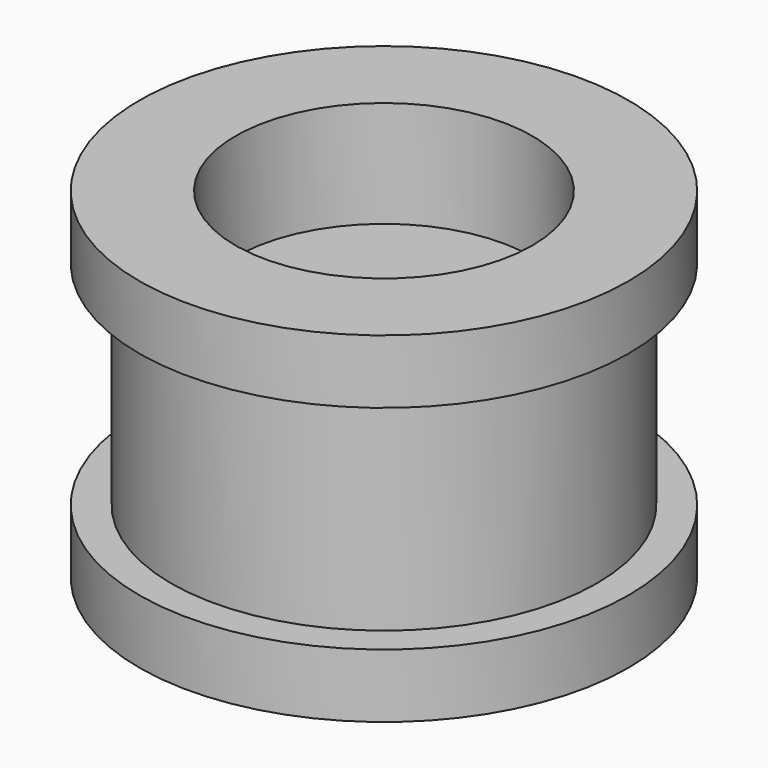
from build123d import *

# Parameters (mm, degrees)
SKETCH_R        = 11.5
PAD_DEPTH       = 3
SKETCH001_R     = 10
PAD001_DEPTH    = 10
SKETCH002_R     = 11.5
PAD002_DEPTH    = 3
SKETCH003_R     = 2.6
POCKET_DEPTH    = 16
SKETCH004_R     = 6.975
POCKET001_DEPTH = 5
SKETCH005_R     = 6.975
POCKET002_DEPTH = 5


with BuildPart() as part:
    # Sketch → Pad (new body)
    with BuildSketch(Plane.XY):
        Circle(SKETCH_R)
    extrude(amount=PAD_DEPTH)

    # Sketch001 (on Face3 of Pad) → Pad001 (join)
    with BuildSketch(Plane.XY.offset(3)):
        Circle(SKETCH001_R)
    extrude(amount=PAD001_DEPTH)

    # Sketch002 (on Face5 of Pad001) → Pad002 (join)
    with BuildSketch(Plane.XY.offset(13)):
        Circle(SKETCH002_R)
    extrude(amount=PAD002_DEPTH)

    # Sketch003 (on Face3 of Pad002) → Pocket (cut)
    with BuildSketch(Plane.XY.offset(16)):
        Circle(SKETCH003_R)
    extrude(amount=-POCKET_DEPTH, mode=Mode.SUBTRACT)

    # Sketch004 (on Face3 of Pocket) → Pocket001 (cut)
    with BuildSketch(Plane.XY.offset(16)):
        Circle(SKETCH004_R)
    extrude(amount=-POCKET001_DEPTH, mode=Mode.SUBTRACT)

    # Sketch005 (on Face10 of Pocket001) → Pocket002 (cut)
    with BuildSketch(Plane(origin=(0, 0, 0), x_dir=(1, 0, 0), z_dir=(0, 0, -1))):
        Circle(SKETCH005_R)
    extrude(amount=-POCKET002_DEPTH, mode=Mode.SUBTRACT)


solid = part.part
